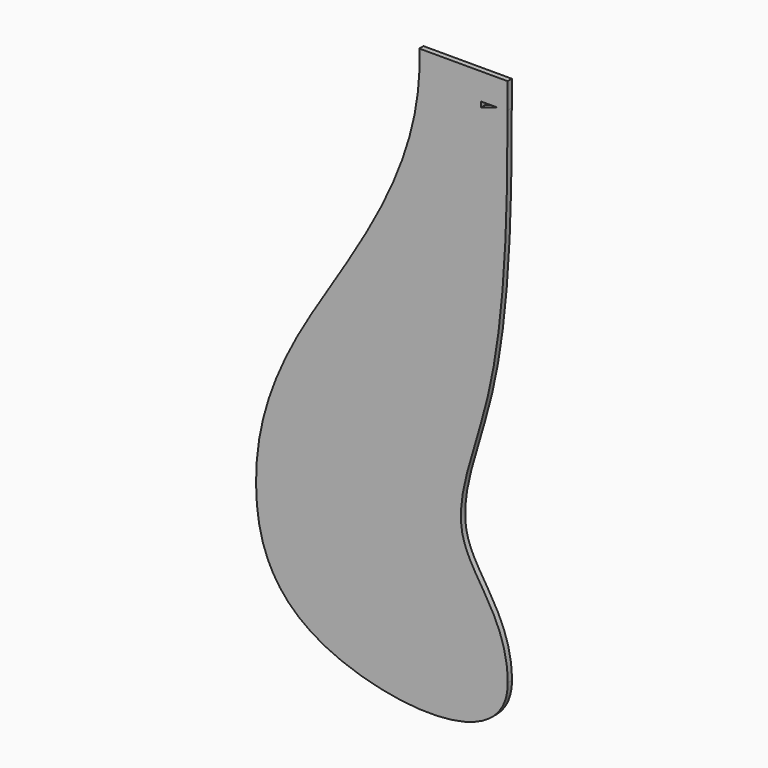
from build123d import *

# Parameters (mm, degrees)
F1_DEPTH = 3


with BuildPart() as f1:
    # F0 (on Front) → F1 (new body)
    with BuildSketch(Plane.XZ):
        with BuildLine():
            Line((-0.0529616107, 48.5688680409), (0, 63.1966261176))
            Line((0, 63.1966261176), (-50, 63.1966261176))
            add(Edge.make_bspline(
                [(-50, 63.1966261176), (-46.8510376398, -1.3401209196), (-125.5743059459, -94.8182731653), (-149.6306044119, -183.6330319601), (-125.8272238071, -265.2318757542), (0, -276.1036621388), (0.0583705459, -236.4973720111)],
                knots=[0, 0, 0, 0, 0.3196409048, 0.5448421319, 0.7543287392, 1, 1, 1, 1], degree=3))
            add(Edge.make_bspline(
                [(-0.0529616107, 48.5688680409), (-0.0216927736, -1.1288597334), (-1.8834100071, -93.6889248449), (-41.7458763761, -175.9251427873), (0, -205.4941677464), (0.0583705459, -236.4973720111)],
                knots=[0.0043323289, 0.0043323289, 0.0043323289, 0.0043323289, 0.4157359652, 0.7155753978, 1, 1, 1, 1], degree=3))
        make_face()
        Polygon((-15.0543090027, 48.1967244335), (-5.9466366033, 48.1967244335), (-15.0543090027, 45.1967244335), align=None, mode=Mode.SUBTRACT)
        with BuildLine():
            add(Edge.make_bspline(
                [(-0.0543090027, 50.1376136121), (-0.0537430558, 49.6151362408), (-0.0532908904, 49.0922151509), (-0.0529616107, 48.5688680409)],
                knots=[0, 0, 0, 0, 0.0043323289, 0.0043323289, 0.0043323289, 0.0043323289], degree=3))
            Line((-0.0529616107, 48.5688680409), (-0.0543090027, 48.1967244335))
            Line((-0.0543090027, 48.1967244335), (-5.9466366033, 48.1967244335))
            Line((-5.9466366033, 48.1967244335), (-0.0543090027, 50.1376136121))
        make_face(mode=Mode.SUBTRACT)
        with BuildLine():
            Line((-0.0543090027, 48.1967244335), (-0.0529616107, 48.5688680409))
            add(Edge.make_bspline(
                [(-0.0543090027, 50.1376136121), (-0.0537430558, 49.6151362408), (-0.0532908904, 49.0922151509), (-0.0529616107, 48.5688680409)],
                knots=[0, 0, 0, 0, 0.0043323289, 0.0043323289, 0.0043323289, 0.0043323289], degree=3))
            Line((-0.0543090027, 50.1376136121), (-5.9466366033, 48.1967244335))
            Line((-5.9466366033, 48.1967244335), (-0.0543090027, 48.1967244335))
        make_face()
    extrude(amount=F1_DEPTH)


solid = f1.part
